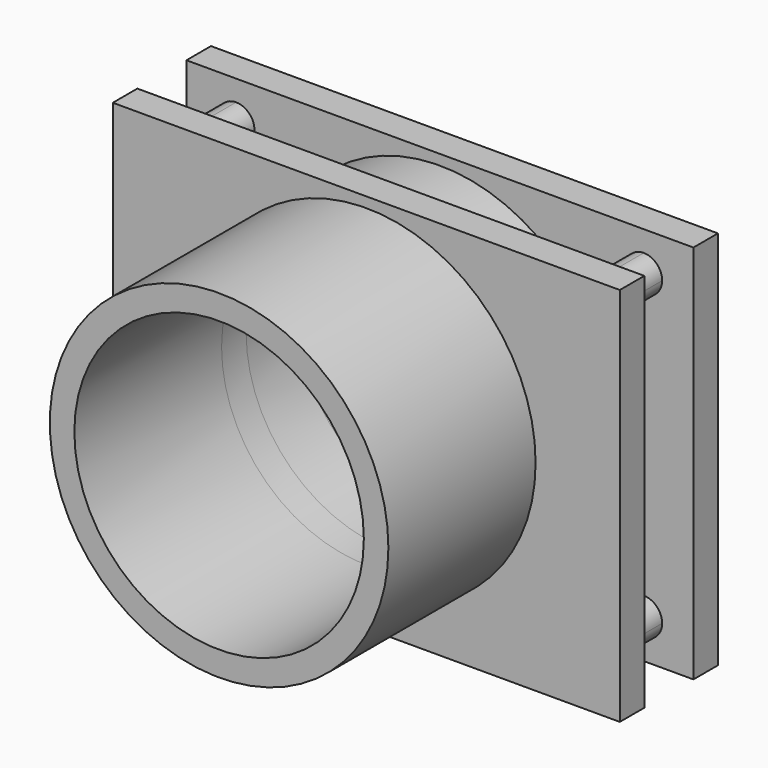
from build123d import *

# Parameters (mm, degrees)
F0_W     = 52.483174
F0_H     = 39.362366
F1_DEPTH = 12.7
F3_DEPTH = 52.484174
F4_R     = 17.52473
F4_R_2   = 14.98473
F5_DEPTH = 12.7
F6_DEPTH = 19.05
F7_DEPTH = 25.4


with BuildPart() as f1:
    # F0 (on Front) → F1 (new body)
    with BuildSketch(Plane.XZ):
        Rectangle(F0_W, F0_H)
    extrude(amount=F1_DEPTH)

    # F2 (on face) → F3 (cut, through all)
    with BuildSketch(Plane(origin=(-26.241587, 0, 0), x_dir=(0, -1, 0), z_dir=(-1, 0, 0))):
        Polygon((6.35, 19.681183), (3.175, 19.681183), (3.175, -19.681183), (6.35, -19.681183), (9.525, -19.681183), (9.525, 19.681183), align=None)
    extrude(amount=-F3_DEPTH, mode=Mode.SUBTRACT)

    # F4 (on face) → F5 (join)
    with BuildSketch(Plane.XZ.offset(12.7)):
        with BuildLine():
            ThreePointArc((-19.196799, 15.615331), (-19.75476, 16.962369), (-21.101799, 17.520331))
            Line((-21.101799, 17.520331), (-21.101799, 15.615331))
            Line((-21.101799, 15.615331), (-21.101799, 13.710331))
            ThreePointArc((-21.101799, 13.710331), (-19.75476, 14.268293), (-19.196799, 15.615331))
        make_face()
        with BuildLine():
            ThreePointArc((-19.196799, -15.615332), (-19.75476, -14.268294), (-21.101799, -13.710332))
            Line((-21.101799, -13.710332), (-21.101799, -15.615332))
            Line((-21.101799, -15.615332), (-21.101799, -17.520332))
            ThreePointArc((-21.101799, -17.520332), (-19.75476, -16.96237), (-19.196799, -15.615332))
        make_face()
        with BuildLine():
            Line((-21.101799, -15.615332), (-21.101799, -13.710332))
            ThreePointArc((-21.101799, -13.710332), (-23.006799, -15.615332), (-21.101799, -17.520332))
            Line((-21.101799, -17.520332), (-21.101799, -15.615332))
        make_face()
        with BuildLine():
            Line((-21.101799, 15.615331), (-21.101799, 17.520331))
            ThreePointArc((-21.101799, 17.520331), (-23.006799, 15.615331), (-21.101799, 13.710331))
            Line((-21.101799, 13.710331), (-21.101799, 15.615331))
        make_face()
        with BuildLine():
            ThreePointArc((23.006799, 15.615331), (22.448837, 16.962369), (21.101799, 17.520331))
            Line((21.101799, 17.520331), (21.101799, 15.615331))
            Line((21.101799, 15.615331), (21.101799, 13.710331))
            ThreePointArc((21.101799, 13.710331), (22.448837, 14.268293), (23.006799, 15.615331))
        make_face()
        with BuildLine():
            ThreePointArc((23.006799, -15.615332), (22.448837, -14.268294), (21.101799, -13.710332))
            Line((21.101799, -13.710332), (21.101799, -15.615332))
            Line((21.101799, -15.615332), (21.101799, -17.520332))
            ThreePointArc((21.101799, -17.520332), (22.448837, -16.96237), (23.006799, -15.615332))
        make_face()
        with BuildLine():
            Line((21.101799, -15.615332), (21.101799, -13.710332))
            ThreePointArc((21.101799, -13.710332), (19.196799, -15.615332), (21.101799, -17.520332))
            Line((21.101799, -17.520332), (21.101799, -15.615332))
        make_face()
        with BuildLine():
            Line((21.101799, 15.615331), (21.101799, 17.520331))
            ThreePointArc((21.101799, 17.520331), (19.196799, 15.615331), (21.101799, 13.710331))
            Line((21.101799, 13.710331), (21.101799, 15.615331))
        make_face()
        with Locations((0, 1.094137)):
            Circle(F4_R)
        with Locations((0, 1.094137)):
            Circle(F4_R_2, mode=Mode.SUBTRACT)
    extrude(amount=-F5_DEPTH)

    # F4 (on face) → F6 (join)
    with BuildSketch(Plane.XZ.offset(12.7)):
        with Locations((0, 1.094137)):
            Circle(F4_R)
        with Locations((0, 1.094137)):
            Circle(F4_R_2, mode=Mode.SUBTRACT)
    extrude(amount=F6_DEPTH)

    # F4 (on face) → F7 (cut)
    with BuildSketch(Plane.XZ.offset(12.7)):
        with Locations((0, 1.094137)):
            Circle(F4_R_2)
    extrude(amount=-F7_DEPTH, mode=Mode.SUBTRACT)


solid = f1.part
